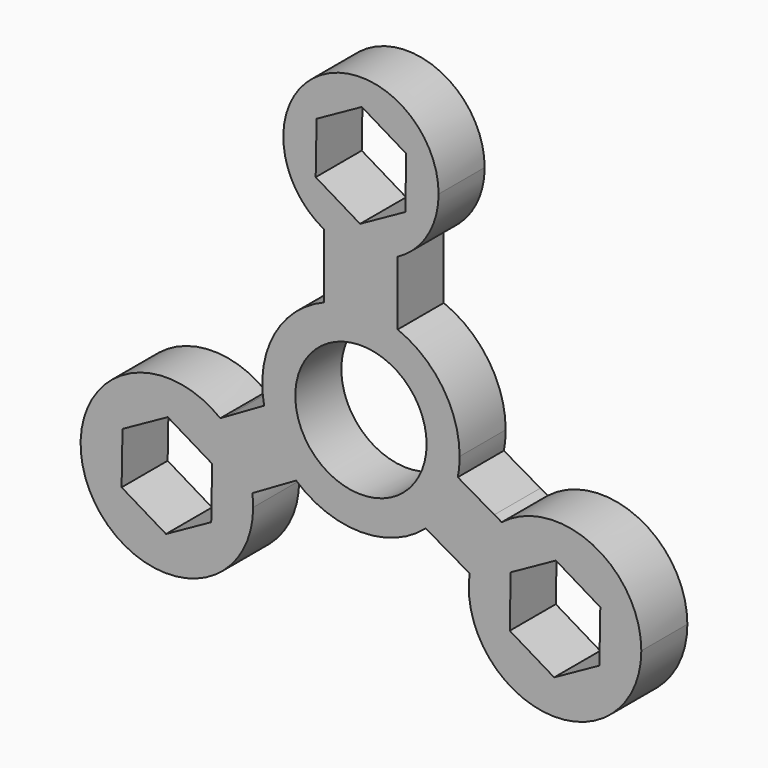
from build123d import *

# Parameters (mm, degrees)
F0_R     = 7.985744
F1_DEPTH = 7
F2_DEPTH = 0.25


with BuildPart() as f1:
    # F0 (on Front) → F1 (new body)
    with BuildSketch(Plane.XZ):
        with BuildLine():
            ThreePointArc((11.777402, -2.30061), (11.944221, -1.155677), (12, 0))
            ThreePointArc((12, 0), (9.939765, 6.723175), (4.466487, 11.137796))
            ThreePointArc((4.466487, 11.137796), (0, 12), (-4.466487, 11.137796))
            ThreePointArc((-4.466487, 11.137796), (-10.541047, 5.734661), (-11.777402, -2.30061))
            ThreePointArc((-11.777402, -2.30061), (-10.392305, -6), (-7.881087, -9.049224))
            ThreePointArc((-7.881087, -9.049224), (0, -12), (7.881087, -9.049224))
            ThreePointArc((7.881087, -9.049224), (10.392305, -6), (11.777402, -2.30061))
        make_face()
        Circle(F0_R, mode=Mode.SUBTRACT)
        with BuildLine():
            ThreePointArc((-4.466487, 11.137796), (0, 12), (4.466487, 11.137796))
            Line((4.466487, 11.137796), (4.466487, 17.906541))
            Line((4.466487, 17.906541), (4.466487, 18.933817))
            ThreePointArc((4.466487, 18.933817), (0, 17.810668), (-4.466487, 18.933817))
            Line((-4.466487, 18.933817), (-4.466487, 17.906541))
            Line((-4.466487, 17.906541), (-4.466487, 11.137796))
        make_face()
        with BuildLine():
            Line((16.224359, -4.868062), (11.777402, -2.30061))
            ThreePointArc((11.777402, -2.30061), (10.392305, -6), (7.881087, -9.049224))
            Line((7.881087, -9.049224), (12.328045, -11.616677))
            Line((12.328045, -11.616677), (13.217692, -12.130315))
            ThreePointArc((13.217692, -12.130315), (14.516048, -8.380844), (17.114007, -5.3817))
            Line((17.114007, -5.3817), (16.224359, -4.868062))
        make_face()
        with BuildLine():
            ThreePointArc((-7.881087, -9.049224), (-10.392305, -6), (-11.777402, -2.30061))
            Line((-11.777402, -2.30061), (-16.224359, -4.868062))
            Line((-16.224359, -4.868062), (-17.114007, -5.3817))
            ThreePointArc((-17.114007, -5.3817), (-14.516048, -8.380844), (-13.217692, -12.130315))
            Line((-13.217692, -12.130315), (-12.328045, -11.616677))
            Line((-12.328045, -11.616677), (-7.881087, -9.049224))
        make_face()
        with BuildLine():
            ThreePointArc((-4.466487, 18.933817), (0, 17.810668), (4.466487, 18.933817))
            ThreePointArc((4.466487, 18.933817), (8.103663, 22.406244), (9.442633, 27.253301))
            ThreePointArc((9.442633, 27.253301), (-4.847057, 35.356964), (-4.466487, 18.933817))
        make_face()
        Polygon((5.394885, 24.013154), (-0.108607, 20.96112), (-5.503492, 24.201267), (-5.394885, 30.493448), (0.108607, 33.545482), (5.503492, 30.305335), align=None, mode=Mode.SUBTRACT)
        with BuildLine():
            ThreePointArc((34.093663, -13.62665), (28.184838, -4.188855), (17.114007, -5.3817))
            ThreePointArc((17.114007, -5.3817), (14.516048, -8.380844), (13.217692, -12.130315))
            ThreePointArc((13.217692, -12.130315), (22.851964, -24.091415), (34.093663, -13.62665))
        make_face()
        Polygon((18.098559, -16.678684), (18.207166, -10.386504), (23.710658, -7.33447), (29.105543, -10.574617), (28.996936, -16.866797), (23.493444, -19.918831), align=None, mode=Mode.SUBTRACT)
        with BuildLine():
            ThreePointArc((-13.217692, -12.130315), (-14.516048, -8.380844), (-17.114007, -5.3817))
            ThreePointArc((-17.114007, -5.3817), (-33.039846, -18.209438), (-13.110439, -13.62665))
            ThreePointArc((-13.110439, -13.62665), (-13.137287, -12.876563), (-13.217692, -12.130315))
        make_face()
        Polygon((-23.493444, -7.33447), (-18.098559, -10.574617), (-18.207166, -16.866797), (-23.710658, -19.918831), (-29.105543, -16.678684), (-28.996936, -10.386504), align=None, mode=Mode.SUBTRACT)
    extrude(amount=F1_DEPTH)

    # F0 (on Front) → F2 (join)
    with BuildSketch(Plane.XZ):
        with BuildLine():
            ThreePointArc((11.777402, -2.30061), (11.944221, -1.155677), (12, 0))
            ThreePointArc((12, 0), (9.939765, 6.723175), (4.466487, 11.137796))
            ThreePointArc((4.466487, 11.137796), (0, 12), (-4.466487, 11.137796))
            ThreePointArc((-4.466487, 11.137796), (-10.541047, 5.734661), (-11.777402, -2.30061))
            ThreePointArc((-11.777402, -2.30061), (-10.392305, -6), (-7.881087, -9.049224))
            ThreePointArc((-7.881087, -9.049224), (0, -12), (7.881087, -9.049224))
            ThreePointArc((7.881087, -9.049224), (10.392305, -6), (11.777402, -2.30061))
        make_face()
        Circle(F0_R, mode=Mode.SUBTRACT)
        with BuildLine():
            ThreePointArc((-4.466487, 11.137796), (0, 12), (4.466487, 11.137796))
            Line((4.466487, 11.137796), (4.466487, 17.906541))
            Line((4.466487, 17.906541), (4.466487, 18.933817))
            ThreePointArc((4.466487, 18.933817), (0, 17.810668), (-4.466487, 18.933817))
            Line((-4.466487, 18.933817), (-4.466487, 17.906541))
            Line((-4.466487, 17.906541), (-4.466487, 11.137796))
        make_face()
        with BuildLine():
            Line((16.224359, -4.868062), (11.777402, -2.30061))
            ThreePointArc((11.777402, -2.30061), (10.392305, -6), (7.881087, -9.049224))
            Line((7.881087, -9.049224), (12.328045, -11.616677))
            Line((12.328045, -11.616677), (13.217692, -12.130315))
            ThreePointArc((13.217692, -12.130315), (14.516048, -8.380844), (17.114007, -5.3817))
            Line((17.114007, -5.3817), (16.224359, -4.868062))
        make_face()
        with BuildLine():
            ThreePointArc((-7.881087, -9.049224), (-10.392305, -6), (-11.777402, -2.30061))
            Line((-11.777402, -2.30061), (-16.224359, -4.868062))
            Line((-16.224359, -4.868062), (-17.114007, -5.3817))
            ThreePointArc((-17.114007, -5.3817), (-14.516048, -8.380844), (-13.217692, -12.130315))
            Line((-13.217692, -12.130315), (-12.328045, -11.616677))
            Line((-12.328045, -11.616677), (-7.881087, -9.049224))
        make_face()
        with BuildLine():
            ThreePointArc((-4.466487, 18.933817), (0, 17.810668), (4.466487, 18.933817))
            ThreePointArc((4.466487, 18.933817), (8.103663, 22.406244), (9.442633, 27.253301))
            ThreePointArc((9.442633, 27.253301), (-4.847057, 35.356964), (-4.466487, 18.933817))
        make_face()
        Polygon((5.394885, 24.013154), (-0.108607, 20.96112), (-5.503492, 24.201267), (-5.394885, 30.493448), (0.108607, 33.545482), (5.503492, 30.305335), align=None, mode=Mode.SUBTRACT)
        with BuildLine():
            ThreePointArc((34.093663, -13.62665), (28.184838, -4.188855), (17.114007, -5.3817))
            ThreePointArc((17.114007, -5.3817), (14.516048, -8.380844), (13.217692, -12.130315))
            ThreePointArc((13.217692, -12.130315), (22.851964, -24.091415), (34.093663, -13.62665))
        make_face()
        Polygon((18.098559, -16.678684), (18.207166, -10.386504), (23.710658, -7.33447), (29.105543, -10.574617), (28.996936, -16.866797), (23.493444, -19.918831), align=None, mode=Mode.SUBTRACT)
        with BuildLine():
            ThreePointArc((-13.217692, -12.130315), (-14.516048, -8.380844), (-17.114007, -5.3817))
            ThreePointArc((-17.114007, -5.3817), (-33.039846, -18.209438), (-13.110439, -13.62665))
            ThreePointArc((-13.110439, -13.62665), (-13.137287, -12.876563), (-13.217692, -12.130315))
        make_face()
        Polygon((-23.493444, -7.33447), (-18.098559, -10.574617), (-18.207166, -16.866797), (-23.710658, -19.918831), (-29.105543, -16.678684), (-28.996936, -10.386504), align=None, mode=Mode.SUBTRACT)
    extrude(amount=F2_DEPTH)


solid = f1.part
